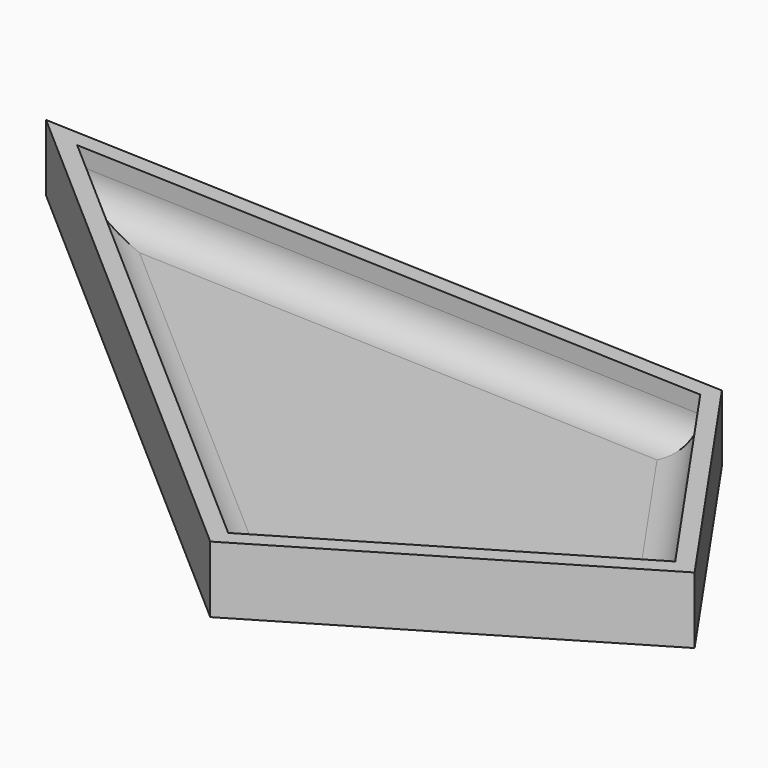
from build123d import *

# Parameters (mm, degrees)
F1_DEPTH = 10.16
F2_T     = -2.5
F3_R     = 5


with BuildPart() as f1:
    # F0 (on Top) → F1 (new body)
    with BuildSketch(Plane.XY):
        Polygon((4.6977261081, 7.2870254517), (-101.8753126264, 11.4898011088), (-18.5698159039, -61.3032579422), (31.5232016146, -31.4628481865), align=None)
    extrude(amount=F1_DEPTH)

    # F2
    f2_openings = [f1.faces().sort_by_distance(p)[0] for p in [
        (-26.57097, -18.043029, 10.16),
    ]]
    offset(amount=F2_T, openings=f2_openings)

    # F3
    f3_edges = [f1.edges().sort_by_distance(p)[0] for p in [
        (-45.772655, 6.775414, 2.5),
        (-56.594272, -24.757201, 2.5),
        (4.826641, -44.456029, 2.5),
        (15.648258, -12.923414, 2.5),
    ]]
    fillet(f3_edges, radius=F3_R)


solid = f1.part
